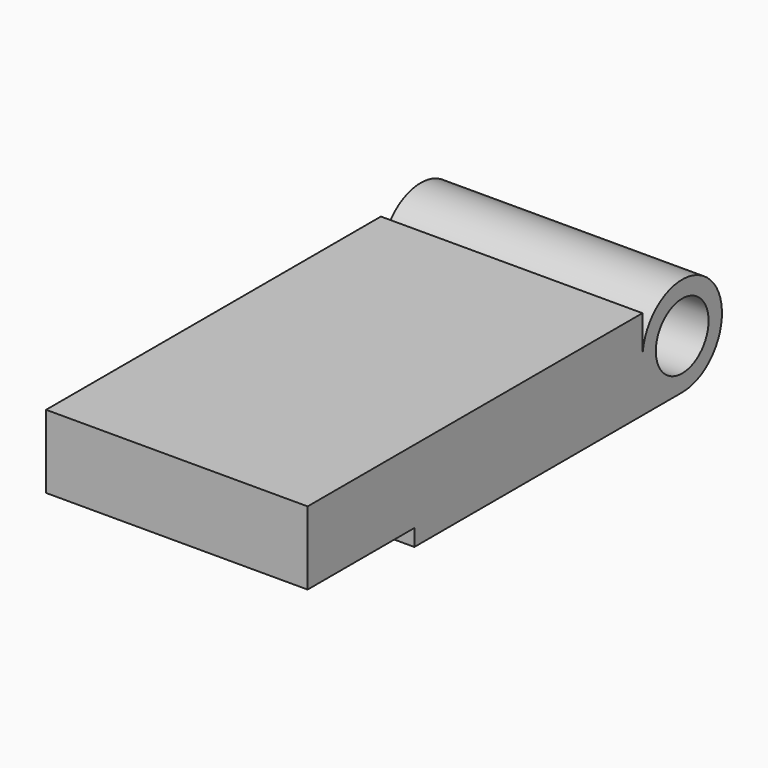
from build123d import *

# Parameters (mm, degrees)
F0_R     = 3.15
F0_W     = 37
F0_H     = 1
F0_W_2   = 2
F0_H_2   = 6
F1_DEPTH = 25
F0_W_3   = 1
F2_DEPTH = 25


with BuildPart() as f1:
    # F0 (on Right) → F1 (new body)
    with BuildSketch(Plane.YZ):
        with BuildLine():
            Line((-3.5552777669, 0), (-4.75, 0))
            Line((-4.75, 0), (-5.75, 0))
            Line((-5.75, 0), (-7.75, 0))
            Line((-7.75, 0), (-32, 0))
            Line((-32, 0), (-32, -1.6))
            Line((-32, -1.6), (0, -1.6))
            ThreePointArc((0, -1.6), (3.3587572106, 6.5087572106), (-4.75, 3.15))
            ThreePointArc((-4.75, 3.15), (-4.4412875044, 1.4655222461), (-3.5552777669, 0))
        make_face()
        with Locations((0, 3.15)):
            Circle(F0_R, mode=Mode.SUBTRACT)
        Polygon((-32, 0), (-7.75, 0), (-7.75, 6), (-44.75, 6), (-44.75, 0), align=None)
        with Locations((-26.25, 6.5)):
            Rectangle(F0_W, F0_H)
        with Locations((-6.75, 6.5)):
            Rectangle(F0_W_2, F0_H)
        with Locations((-6.75, 3)):
            Rectangle(F0_W_2, F0_H_2)
    extrude(amount=F1_DEPTH)


with BuildPart() as f2:
    # F0 (on Right) → F2 (new body)
    with BuildSketch(Plane.YZ):
        Polygon((-32, 0), (-7.75, 0), (-7.75, 6), (-44.75, 6), (-44.75, 0), align=None)
        with BuildLine():
            Line((-3.5552777669, 0), (-4.75, 0))
            Line((-4.75, 0), (-5.75, 0))
            Line((-5.75, 0), (-7.75, 0))
            Line((-7.75, 0), (-32, 0))
            Line((-32, 0), (-32, -1.6))
            Line((-32, -1.6), (0, -1.6))
            ThreePointArc((0, -1.6), (3.3587572106, 6.5087572106), (-4.75, 3.15))
            ThreePointArc((-4.75, 3.15), (-4.4412875044, 1.4655222461), (-3.5552777669, 0))
        make_face()
        with Locations((0, 3.15)):
            Circle(F0_R, mode=Mode.SUBTRACT)
        with BuildLine():
            Line((-4.75, 3.15), (-4.75, 0))
            Line((-4.75, 0), (-3.5552777669, 0))
            ThreePointArc((-3.5552777669, 0), (-4.4412875044, 1.4655222461), (-4.75, 3.15))
        make_face()
        with Locations((-26.25, 6.5)):
            Rectangle(F0_W, F0_H)
        with Locations((-5.25, 6.5)):
            Rectangle(F0_W_3, F0_H)
        Polygon((-5.75, 0), (-4.75, 0), (-4.75, 3.15), (-4.75, 6), (-5.75, 6), align=None)
        with Locations((-6.75, 6.5)):
            Rectangle(F0_W_2, F0_H)
        with Locations((-6.75, 3)):
            Rectangle(F0_W_2, F0_H_2)
    extrude(amount=F2_DEPTH)


solid = Compound([f1.part, f2.part])
